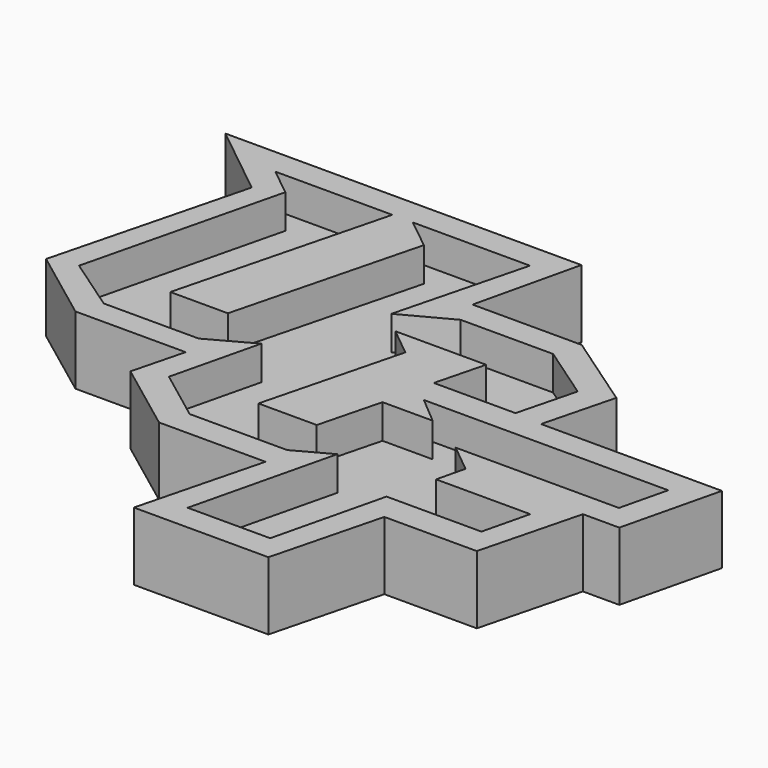
from build123d import *

# Parameters (mm, degrees)
F1_DEPTH = 5.08
F2_DEPTH = 2.54


with BuildPart() as f1:
    # F0 (on Top) → F1 (new body)
    with BuildSketch(Plane.XY):
        Polygon((2.1859223297, 19.248547896), (-24.3953090747, 19.248547896), (-18.9395717811, 14.8791704217), (-22.6627825954, 0.3451996698), (-17.1898484699, -3.7593468121), (-8.9564369545, -3.7593468121), (-9.9565906694, -7.6635589463), (-4.6268214747, -11.6607357615), (3.3259746574, -11.6607357615), (0.9416517448, -20.9682075121), (10.988304789, -20.9682075121), (13.0882485999, -12.7708414613), (19.9927147226, -12.7708414613), (21.9150878042, -5.2666426563), (24.6298443066, -5.2666426563), (26.4046909253, 2.0960416775), (12.8948415761, 2.0960416775), (14.2589756145, 7.4210918036), (8.5066062772, 11.382008699), (0.3546772284, 11.382008699), align=None)
        Polygon((-20.6326617241, 0.8851447814), (-17.0350794991, 15.643025438), (-19.1151439831, 17.3089023695), (-10.3791536142, 17.3089023695), (-14.4004393661, 1.6113626868), (-10.1006558786, 1.6113626868), (-6.550601553, 15.469397676), (-8.847462929, 17.3089023695), (-0.1028961172, 17.3089023695), (-2.6109213046, 7.5185449236), (1.0187151687, 9.4473759333), (7.9203285277, 9.4473759333), (11.997169684, 6.6401797905), (10.8709626259, 2.2439043015), (4.7710491344, 2.2439043015), (5.7189009901, 5.9439502658), (-1.0584690608, 5.9439502658), (1.063386056, 4.2209116121), (-1.5982844269, -6.1692174671), (2.7608703822, -6.1692174671), (3.9516054808, -1.521049539), (7.6969756434, -1.521049539), (5.6644616028, 0.2005538166), (23.9124173919, 0.2005538166), (23.0591944391, -3.3389133138), (10.8685915669, -3.3389133138), (12.9904473821, -5.0705817218), (12.4812849915, -7.1827653424), (19.5123602947, -7.1827653424), (18.668519463, -10.6833121536), (11.5833220383, -10.6833121536), (9.571338977, -19.0297213635), (3.4085946778, -19.0297213635), (5.9958781117, -8.2967650591), (3.3862596999, -9.7163282335), (-3.8950548818, -9.7163282335), (-7.7814006557, -6.790401414), (-6.184447335, -0.1656806791), (-9.4342138618, -1.9436366856), (-16.5244725843, -1.9436366856), align=None, mode=Mode.SUBTRACT)
        Polygon((-19.1151439831, 17.3089023695), (-17.0350794991, 15.643025438), (-20.6326617241, 0.8851447814), (-16.5244725843, -1.9436366856), (-9.4342138618, -1.9436366856), (-6.184447335, -0.1656806791), (-7.7814006557, -6.790401414), (-3.8950548818, -9.7163282335), (3.3862596999, -9.7163282335), (5.9958781117, -8.2967650591), (3.4085946778, -19.0297213635), (9.571338977, -19.0297213635), (11.5833220383, -10.6833121536), (18.668519463, -10.6833121536), (19.5123602947, -7.1827653424), (12.4812849915, -7.1827653424), (12.9904473821, -5.0705817218), (10.8685915669, -3.3389133138), (23.0591944391, -3.3389133138), (23.9124173919, 0.2005538166), (5.6644616028, 0.2005538166), (7.6969756434, -1.521049539), (3.9516054808, -1.521049539), (2.7608703822, -6.1692174671), (-1.5982844269, -6.1692174671), (1.063386056, 4.2209116121), (-1.0584690608, 5.9439502658), (5.7189009901, 5.9439502658), (4.7710491344, 2.2439043015), (10.8709626259, 2.2439043015), (11.997169684, 6.6401797905), (7.9203285277, 9.4473759333), (1.0187151687, 9.4473759333), (-2.6109213046, 7.5185449236), (-0.1028961172, 17.3089023695), (-8.847462929, 17.3089023695), (-6.550601553, 15.469397676), (-10.1006558786, 1.6113626868), (-14.4004393661, 1.6113626868), (-10.3791536142, 17.3089023695), align=None)
        Polygon((-1.4470629355, 6.2614502658), (-1.7529480132, 6.0988993801), (0.7053412177, 4.1026615912), (-2.007371729, -6.4867174671), (3.0072878326, -6.4867174671), (4.1980229312, -1.838549539), (8.4534338099, -1.838549539), (8.4722807786, -1.7616673308), (6.530533387, -0.1169461834), (23.509286259, -0.1169461834), (22.8091362278, -3.0214133138), (9.9773968665, -3.0214133138), (12.6349923897, -5.1903044212), (12.0781538585, -7.5002653424), (19.1092291617, -7.5002653424), (18.4184612518, -10.3658121536), (11.333263827, -10.3658121536), (9.3212807658, -18.7122213635), (3.8117258108, -18.7122213635), (6.4720393651, -7.6763105851), (3.305492183, -9.3988282335), (-3.788897508, -9.3988282335), (-7.4238874577, -6.662140558), (-5.7077402086, 0.4570382668), (-9.5153891072, -1.6261366856), (-16.4257337365, -1.6261366856), (-20.2723691619, 1.0225463793), (-16.6786986539, 15.7643805222), (-18.2107953637, 16.9914023695), (-10.7882409164, 16.9914023695), (-14.8095266683, 1.2938626868), (-9.8542384282, 1.2938626868), (-6.1921799664, 15.5891183762), (-7.9431143096, 16.9914023695), (-0.5119834194, 16.9914023695), (-3.0969436407, 6.9007203948), (1.0978376576, 9.1298759333), (7.8215896798, 9.1298759333), (11.6346173395, 6.5043342141), (10.6245451755, 2.5614043015), (5.1801364366, 2.5614043015), (6.1279882922, 6.2614502658), align=None, mode=Mode.SUBTRACT)
        Polygon((-5.9958964755, -7.1322803998), (-6.8447431549, -6.4807981253), (-3.836085248, 6.0001668234), (1.1804265973, 8.6659995258), (7.5871106237, 8.6659995258), (8.8139669276, 7.8212213871), (1.4880838571, 7.8212213871), (-1.4470629355, 6.2614502658), (6.1279882922, 6.2614502658), (5.1801364366, 2.5614043015), (10.6245451755, 2.5614043015), (11.6346173395, 6.5043342141), (7.8215896798, 9.1298759333), (1.0978376576, 9.1298759333), (-3.0969436407, 6.9007203948), (-0.5119834194, 16.9914023695), (-7.9431143096, 16.9914023695), (-6.1921799664, 15.5891183762), (-9.8542384282, 1.2938626868), (-14.8095266683, 1.2938626868), (-10.7882409164, 16.9914023695), (-18.2107953637, 16.9914023695), (-16.6786986539, 15.7643805222), (-20.2723691619, 1.0225463793), (-16.4257337365, -1.6261366856), (-9.5153891072, -1.6261366856), (-5.7077402086, 0.4570382668), (-7.4238874577, -6.662140558), (-3.788897508, -9.3988282335), (3.305492183, -9.3988282335), (6.4720393651, -7.6763105851), (3.8117258108, -18.7122213635), (9.3212807658, -18.7122213635), (11.333263827, -10.3658121536), (18.4184612518, -10.3658121536), (19.1092291617, -7.5002653424), (12.0781538585, -7.5002653424), (12.6349923897, -5.1903044212), (9.9773968665, -3.0214133138), (22.8091362278, -3.0214133138), (23.509286259, -0.1169461834), (6.530533387, -0.1169461834), (8.4722807786, -1.7616673308), (8.6163925007, -1.1737941531), (7.9285055295, -0.7001348718), (22.8997431695, -0.7001348718), (22.7018537103, -1.521049539), (9.492916055, -1.521049539), (5.4628625857, -18.2391204024), (4.4329841621, -18.2391204024), (8.4534338099, -1.838549539), (4.1980229312, -1.838549539), (3.0072878326, -6.4867174671), (-2.007371729, -6.4867174671), (0.7053412177, 4.1026615912), (-1.7529480132, 6.0988993801), (-2.9611672112, 5.456837655), align=None)
        Polygon((-1.8931780942, -7.869553083), (-1.6672882484, -6.9988858886), (3.3901352435, -6.9988858886), (4.5163077443, -2.3271285994), (7.2051645257, -2.3271285994), (6.9932386076, -3.2062714054), (5.2349027246, -3.2062714054), (4.1107733525, -7.869553083), align=None, mode=Mode.SUBTRACT)
        Polygon((12.0627228171, -8.8622216706), (12.3017746955, -7.946931757), (18.4374414384, -7.946931757), (18.2168019088, -8.8622216706), align=None, mode=Mode.SUBTRACT)
        Polygon((-18.894339994, 0.7209487154), (-19.6556132287, 1.3443980133), (-16.0978934319, 15.9387563591), (-16.7280736738, 16.4434535624), (-11.4680863917, 16.4434535624), (-11.6794740259, 15.5763063276), (-15.2729954571, 15.5763063276), align=None, mode=Mode.SUBTRACT)
        Polygon((-14.4821710257, 0.8135896642), (-9.4944098964, 0.8135896642), (-5.6433276886, 15.8467207341), (-6.5030540089, 16.5352562364), (-1.1275938014, 16.5352562364), (-1.3768279931, 15.5623426319), (-4.9125822261, 15.5623426319), (-8.9262763228, -0.1055621736), (-14.7176329046, -0.1055621736), align=None, mode=Mode.SUBTRACT)
        Polygon((5.8288373984, 2.9955036685), (6.5831555985, 5.9439502658), (7.4867149815, 5.9439502658), (6.7759632724, 2.9955036685), align=None, mode=Mode.SUBTRACT)
        Polygon((8.4722807786, -1.7616673308), (8.4534338099, -1.838549539), (4.4329841621, -18.2391204024), (5.4628625857, -18.2391204024), (9.492916055, -1.521049539), (22.7018537103, -1.521049539), (22.8997431695, -0.7001348718), (7.9285055295, -0.7001348718), (8.6163925007, -1.1737941531), align=None)
        Polygon((-3.836085248, 6.0001668234), (-6.8447431549, -6.4807981253), (-5.9958964755, -7.1322803998), (-2.9611672112, 5.456837655), (-1.7529480132, 6.0988993801), (-1.9531231096, 6.2614502658), (-1.4470629355, 6.2614502658), (1.4880838571, 7.8212213871), (8.8139669276, 7.8212213871), (7.5871106237, 8.6659995258), (1.1804265973, 8.6659995258), align=None)
        Polygon((-5.6433276886, 15.8467207341), (-9.4944098964, 0.8135896642), (-14.4821710257, 0.8135896642), (-14.7176329046, -0.1055621736), (-8.9262763228, -0.1055621736), (-4.9125822261, 15.5623426319), (-1.3768279931, 15.5623426319), (-1.1275938014, 16.5352562364), (-6.5030540089, 16.5352562364), align=None)
        Polygon((-16.0978934319, 15.9387563591), (-19.6556132287, 1.3443980133), (-18.894339994, 0.7209487154), (-15.2729954571, 15.5763063276), (-11.6794740259, 15.5763063276), (-11.4680863917, 16.4434535624), (-16.7280736738, 16.4434535624), align=None)
        Polygon((3.3901352435, -6.9988858886), (-1.6672882484, -6.9988858886), (-1.8931780942, -7.869553083), (4.1107733525, -7.869553083), (5.2349027246, -3.2062714054), (6.9932386076, -3.2062714054), (7.2051645257, -2.3271285994), (4.5163077443, -2.3271285994), align=None)
        Polygon((18.4374414384, -7.946931757), (12.3017746955, -7.946931757), (12.0627228171, -8.8622216706), (18.2168019088, -8.8622216706), align=None)
        Polygon((7.4867149815, 5.9439502658), (6.5831555985, 5.9439502658), (5.8288373984, 2.9955036685), (6.7759632724, 2.9955036685), align=None)
        Polygon((-1.9531231096, 6.2614502658), (-1.7529480132, 6.0988993801), (-1.4470629355, 6.2614502658), align=None)
    extrude(amount=-F1_DEPTH)

    # F0 (on Top) → F2 (cut)
    with BuildSketch(Plane.XY):
        Polygon((-19.1151439831, 17.3089023695), (-17.0350794991, 15.643025438), (-20.6326617241, 0.8851447814), (-16.5244725843, -1.9436366856), (-9.4342138618, -1.9436366856), (-6.184447335, -0.1656806791), (-7.7814006557, -6.790401414), (-3.8950548818, -9.7163282335), (3.3862596999, -9.7163282335), (5.9958781117, -8.2967650591), (3.4085946778, -19.0297213635), (9.571338977, -19.0297213635), (11.5833220383, -10.6833121536), (18.668519463, -10.6833121536), (19.5123602947, -7.1827653424), (12.4812849915, -7.1827653424), (12.9904473821, -5.0705817218), (10.8685915669, -3.3389133138), (23.0591944391, -3.3389133138), (23.9124173919, 0.2005538166), (5.6644616028, 0.2005538166), (7.6969756434, -1.521049539), (3.9516054808, -1.521049539), (2.7608703822, -6.1692174671), (-1.5982844269, -6.1692174671), (1.063386056, 4.2209116121), (-1.0584690608, 5.9439502658), (5.7189009901, 5.9439502658), (4.7710491344, 2.2439043015), (10.8709626259, 2.2439043015), (11.997169684, 6.6401797905), (7.9203285277, 9.4473759333), (1.0187151687, 9.4473759333), (-2.6109213046, 7.5185449236), (-0.1028961172, 17.3089023695), (-8.847462929, 17.3089023695), (-6.550601553, 15.469397676), (-10.1006558786, 1.6113626868), (-14.4004393661, 1.6113626868), (-10.3791536142, 17.3089023695), align=None)
        Polygon((-1.4470629355, 6.2614502658), (-1.7529480132, 6.0988993801), (0.7053412177, 4.1026615912), (-2.007371729, -6.4867174671), (3.0072878326, -6.4867174671), (4.1980229312, -1.838549539), (8.4534338099, -1.838549539), (8.4722807786, -1.7616673308), (6.530533387, -0.1169461834), (23.509286259, -0.1169461834), (22.8091362278, -3.0214133138), (9.9773968665, -3.0214133138), (12.6349923897, -5.1903044212), (12.0781538585, -7.5002653424), (19.1092291617, -7.5002653424), (18.4184612518, -10.3658121536), (11.333263827, -10.3658121536), (9.3212807658, -18.7122213635), (3.8117258108, -18.7122213635), (6.4720393651, -7.6763105851), (3.305492183, -9.3988282335), (-3.788897508, -9.3988282335), (-7.4238874577, -6.662140558), (-5.7077402086, 0.4570382668), (-9.5153891072, -1.6261366856), (-16.4257337365, -1.6261366856), (-20.2723691619, 1.0225463793), (-16.6786986539, 15.7643805222), (-18.2107953637, 16.9914023695), (-10.7882409164, 16.9914023695), (-14.8095266683, 1.2938626868), (-9.8542384282, 1.2938626868), (-6.1921799664, 15.5891183762), (-7.9431143096, 16.9914023695), (-0.5119834194, 16.9914023695), (-3.0969436407, 6.9007203948), (1.0978376576, 9.1298759333), (7.8215896798, 9.1298759333), (11.6346173395, 6.5043342141), (10.6245451755, 2.5614043015), (5.1801364366, 2.5614043015), (6.1279882922, 6.2614502658), align=None, mode=Mode.SUBTRACT)
        Polygon((-5.9958964755, -7.1322803998), (-6.8447431549, -6.4807981253), (-3.836085248, 6.0001668234), (1.1804265973, 8.6659995258), (7.5871106237, 8.6659995258), (8.8139669276, 7.8212213871), (1.4880838571, 7.8212213871), (-1.4470629355, 6.2614502658), (6.1279882922, 6.2614502658), (5.1801364366, 2.5614043015), (10.6245451755, 2.5614043015), (11.6346173395, 6.5043342141), (7.8215896798, 9.1298759333), (1.0978376576, 9.1298759333), (-3.0969436407, 6.9007203948), (-0.5119834194, 16.9914023695), (-7.9431143096, 16.9914023695), (-6.1921799664, 15.5891183762), (-9.8542384282, 1.2938626868), (-14.8095266683, 1.2938626868), (-10.7882409164, 16.9914023695), (-18.2107953637, 16.9914023695), (-16.6786986539, 15.7643805222), (-20.2723691619, 1.0225463793), (-16.4257337365, -1.6261366856), (-9.5153891072, -1.6261366856), (-5.7077402086, 0.4570382668), (-7.4238874577, -6.662140558), (-3.788897508, -9.3988282335), (3.305492183, -9.3988282335), (6.4720393651, -7.6763105851), (3.8117258108, -18.7122213635), (9.3212807658, -18.7122213635), (11.333263827, -10.3658121536), (18.4184612518, -10.3658121536), (19.1092291617, -7.5002653424), (12.0781538585, -7.5002653424), (12.6349923897, -5.1903044212), (9.9773968665, -3.0214133138), (22.8091362278, -3.0214133138), (23.509286259, -0.1169461834), (6.530533387, -0.1169461834), (8.4722807786, -1.7616673308), (8.6163925007, -1.1737941531), (7.9285055295, -0.7001348718), (22.8997431695, -0.7001348718), (22.7018537103, -1.521049539), (9.492916055, -1.521049539), (5.4628625857, -18.2391204024), (4.4329841621, -18.2391204024), (8.4534338099, -1.838549539), (4.1980229312, -1.838549539), (3.0072878326, -6.4867174671), (-2.007371729, -6.4867174671), (0.7053412177, 4.1026615912), (-1.7529480132, 6.0988993801), (-2.9611672112, 5.456837655), align=None)
        Polygon((-1.8931780942, -7.869553083), (-1.6672882484, -6.9988858886), (3.3901352435, -6.9988858886), (4.5163077443, -2.3271285994), (7.2051645257, -2.3271285994), (6.9932386076, -3.2062714054), (5.2349027246, -3.2062714054), (4.1107733525, -7.869553083), align=None, mode=Mode.SUBTRACT)
        Polygon((12.0627228171, -8.8622216706), (12.3017746955, -7.946931757), (18.4374414384, -7.946931757), (18.2168019088, -8.8622216706), align=None, mode=Mode.SUBTRACT)
        Polygon((-18.894339994, 0.7209487154), (-19.6556132287, 1.3443980133), (-16.0978934319, 15.9387563591), (-16.7280736738, 16.4434535624), (-11.4680863917, 16.4434535624), (-11.6794740259, 15.5763063276), (-15.2729954571, 15.5763063276), align=None, mode=Mode.SUBTRACT)
        Polygon((-14.4821710257, 0.8135896642), (-9.4944098964, 0.8135896642), (-5.6433276886, 15.8467207341), (-6.5030540089, 16.5352562364), (-1.1275938014, 16.5352562364), (-1.3768279931, 15.5623426319), (-4.9125822261, 15.5623426319), (-8.9262763228, -0.1055621736), (-14.7176329046, -0.1055621736), align=None, mode=Mode.SUBTRACT)
        Polygon((5.8288373984, 2.9955036685), (6.5831555985, 5.9439502658), (7.4867149815, 5.9439502658), (6.7759632724, 2.9955036685), align=None, mode=Mode.SUBTRACT)
        Polygon((8.4722807786, -1.7616673308), (8.4534338099, -1.838549539), (4.4329841621, -18.2391204024), (5.4628625857, -18.2391204024), (9.492916055, -1.521049539), (22.7018537103, -1.521049539), (22.8997431695, -0.7001348718), (7.9285055295, -0.7001348718), (8.6163925007, -1.1737941531), align=None)
        Polygon((-3.836085248, 6.0001668234), (-6.8447431549, -6.4807981253), (-5.9958964755, -7.1322803998), (-2.9611672112, 5.456837655), (-1.7529480132, 6.0988993801), (-1.9531231096, 6.2614502658), (-1.4470629355, 6.2614502658), (1.4880838571, 7.8212213871), (8.8139669276, 7.8212213871), (7.5871106237, 8.6659995258), (1.1804265973, 8.6659995258), align=None)
        Polygon((-5.6433276886, 15.8467207341), (-9.4944098964, 0.8135896642), (-14.4821710257, 0.8135896642), (-14.7176329046, -0.1055621736), (-8.9262763228, -0.1055621736), (-4.9125822261, 15.5623426319), (-1.3768279931, 15.5623426319), (-1.1275938014, 16.5352562364), (-6.5030540089, 16.5352562364), align=None)
        Polygon((-16.0978934319, 15.9387563591), (-19.6556132287, 1.3443980133), (-18.894339994, 0.7209487154), (-15.2729954571, 15.5763063276), (-11.6794740259, 15.5763063276), (-11.4680863917, 16.4434535624), (-16.7280736738, 16.4434535624), align=None)
        Polygon((3.3901352435, -6.9988858886), (-1.6672882484, -6.9988858886), (-1.8931780942, -7.869553083), (4.1107733525, -7.869553083), (5.2349027246, -3.2062714054), (6.9932386076, -3.2062714054), (7.2051645257, -2.3271285994), (4.5163077443, -2.3271285994), align=None)
        Polygon((18.4374414384, -7.946931757), (12.3017746955, -7.946931757), (12.0627228171, -8.8622216706), (18.2168019088, -8.8622216706), align=None)
        Polygon((7.4867149815, 5.9439502658), (6.5831555985, 5.9439502658), (5.8288373984, 2.9955036685), (6.7759632724, 2.9955036685), align=None)
        Polygon((-1.9531231096, 6.2614502658), (-1.7529480132, 6.0988993801), (-1.4470629355, 6.2614502658), align=None)
    extrude(amount=-F2_DEPTH, mode=Mode.SUBTRACT)


solid = f1.part
